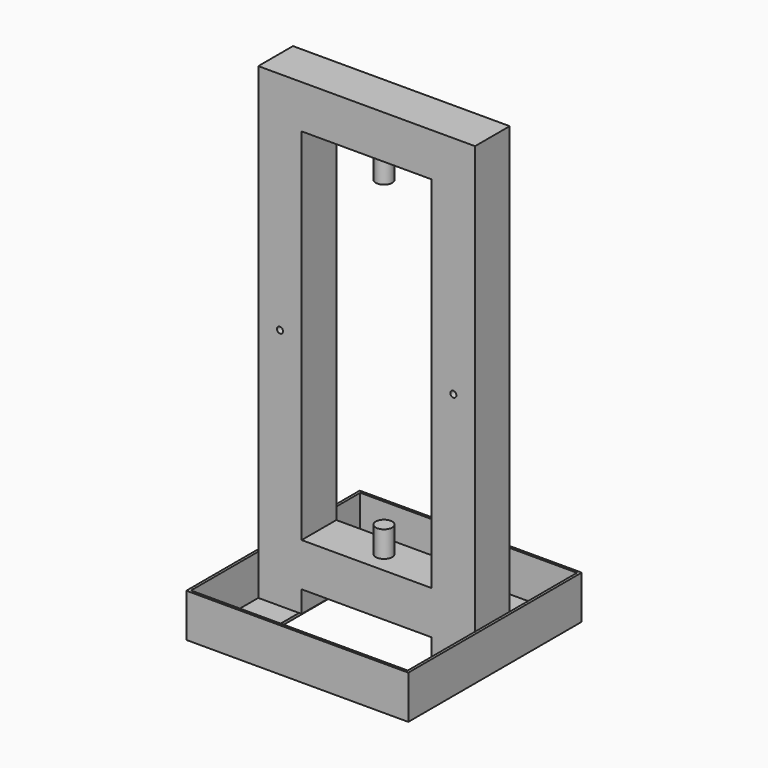
from build123d import *

# Parameters (mm, degrees)
F0_W      = 150
F0_H      = 415
F1_DEPTH  = 25
F3_DEPTH  = 125
F5_DEPTH  = 125
F6_R      = 9.5
F7_DEPTH  = 35
F8_R      = 12.5
F9_DEPTH  = 5
F10_R     = 9.5
F11_DEPTH = 30
F12_R     = 3.5
F13_DEPTH = 30


with BuildPart() as f1:
    # F0 (on Front) → F1 (new body, symmetric)
    with BuildSketch(Plane.XZ):
        Polygon((125, -540), (125, 0), (-125, 0), (-125, -540), (-75, -540), (-75, -515), (75, -515), (75, -540), align=None)
        with Locations((0, -257.5)):
            Rectangle(F0_W, F0_H, mode=Mode.SUBTRACT)
    extrude(amount=F1_DEPTH, both=True)

    # F2 (on Front) → F3 (join, symmetric)
    with BuildSketch(Plane.XZ):
        Polygon((-125, -493), (-128, -493), (-128, -543), (-78, -543), (-78, -540), (-125, -540), align=None)
        Polygon((78, -540), (78, -543), (128, -543), (128, -493), (125, -493), (125, -540), align=None)
    extrude(amount=F3_DEPTH, both=True)

    # F4 (on Right) → F5 (join, symmetric)
    with BuildSketch(Plane.YZ):
        Polygon((125, -543), (125, -493), (122, -493), (122, -540), (75, -540), (75, -543), align=None)
        Polygon((-122, -540), (-122, -493), (-125, -493), (-125, -543), (-75, -543), (-75, -540), align=None)
    extrude(amount=F5_DEPTH, both=True)

    # F6 (on face) → F7 (join)
    with BuildSketch(Plane(origin=(0, 0, -50), x_dir=(1, 0, 0), z_dir=(0, 0, -1))):
        Circle(F6_R)
    extrude(amount=F7_DEPTH)

    # F8 (on face) → F9 (join)
    with BuildSketch(Plane(origin=(0, 0, -50), x_dir=(1, 0, 0), z_dir=(0, 0, -1))):
        Circle(F8_R)
    extrude(amount=F9_DEPTH)

    # F10 (on face) → F11 (join)
    with BuildSketch(Plane.XY.offset(-465)):
        Circle(F10_R)
    extrude(amount=F11_DEPTH)

    # F12 (on Front) → F13 (cut, symmetric)
    with BuildSketch(Plane.XZ):
        with Locations((-100, -260)):
            Circle(F12_R)
        with Locations((100, -260)):
            Circle(F12_R)
    extrude(amount=F13_DEPTH, both=True, mode=Mode.SUBTRACT)


solid = f1.part
